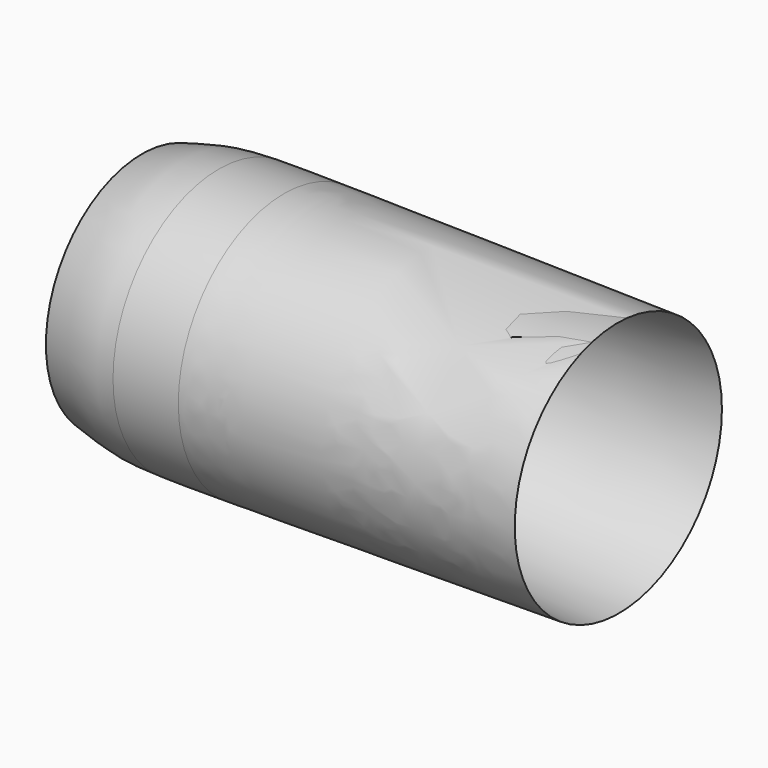
from build123d import *


with BuildPart() as f1:
    # F0 (on Top) → F1 (revolve)
    with BuildSketch(Plane.XY):
        with BuildLine():
            add(Edge.make_bspline(
                [(-100.6074650794, 36.3099943073), (-94.681219166, 37.8416089123), (-83.3154792065, 40.7790388889), (-73.3747984366, 41.0737874514), (-68.2344948746, 41.1292680545)],
                knots=[0, 0, 0, 0, 0.1676684384, 0.3215654688, 0.3215654688, 0.3215654688, 0.3215654688], degree=3))
            Line((-100.6074650794, 36.3099943073), (-68.2344948746, 31.7754809876))
            Line((-68.2344948746, 31.7754809876), (-68.2344948746, 41.1292680545))
        make_face()
        with BuildLine():
            add(Edge.make_bspline(
                [(-68.2344948746, 41.1292680545), (-61.2834752413, 41.2042921763), (-53.632422984, 41.1228203939), (-40.785565642, 40.9197382543)],
                knots=[0.3215654688, 0.3215654688, 0.3215654688, 0.3215654688, 0.5296740499, 0.5296740499, 0.5296740499, 0.5296740499], degree=3))
            Line((-68.2344948746, 41.1292680545), (-68.2344948746, 31.7754809876))
            Line((-68.2344948746, 31.7754809876), (-41.5189362164, 28.0334067876))
            Line((-41.5189362164, 28.0334067876), (-40.785565642, 40.9197382543))
        make_face()
        with BuildLine():
            add(Edge.make_bspline(
                [(-40.785565642, 40.9197382543), (-11.7516336654, 40.4607720754), (43.8204552171, 39.3806673654), (99.3925349206, 38.3005622812)],
                knots=[0.5296740499, 0.5296740499, 0.5296740499, 0.5296740499, 1, 1, 1, 1], degree=3))
            Line((-40.785565642, 40.9197382543), (-41.5189362164, 28.0334067876))
            Line((-41.5189362164, 28.0334067876), (99.3925349206, 38.3005622812))
        make_face()
    revolve(axis=Axis((-46.3800478135, -14.1231556524, 0), (0.9999692915, -0.0078368339, 0)))


solid = f1.part
